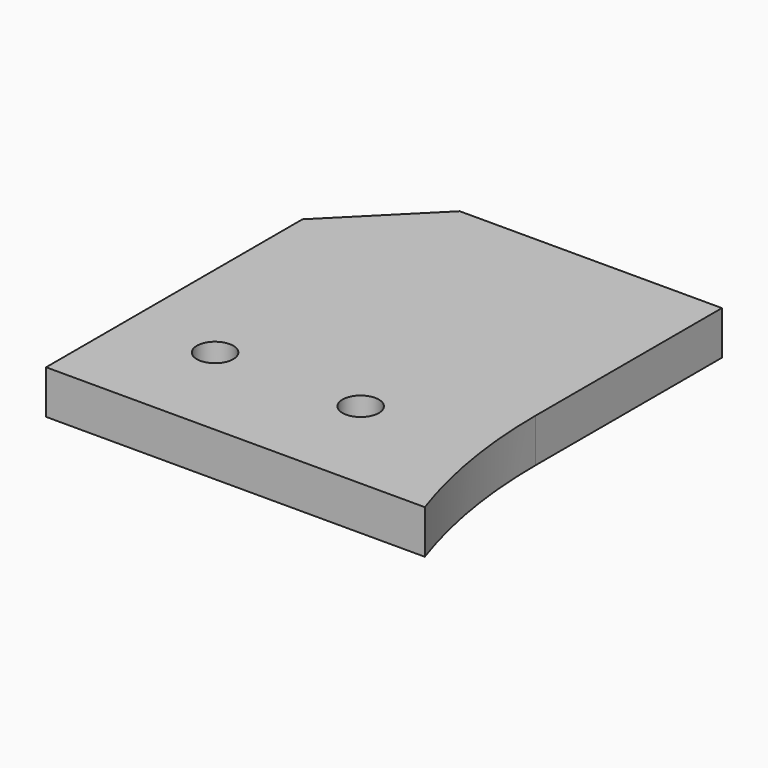
from build123d import *

# Parameters (mm, degrees)
BOX749_W           = 148
BOX749_H           = 74
BOX749_DEPTH       = 55
CYLINDER1788_R     = 2.5
CYLINDER1788_DEPTH = 20
CYLINDER1789_R     = 2.5
CYLINDER1789_DEPTH = 20
CYLINDER1787_R     = 74
CYLINDER1787_DEPTH = 32
BOX748_W           = 62
BOX748_H           = 56
BOX748_DEPTH       = 6
CHAMFER062_SIZE    = 12


with BuildPart() as krychle749:
    # Box749 → Box749 (new body)
    with BuildSketch(Plane(origin=(-74, 0, 29), x_dir=(1, 0, 0), z_dir=(0, 0, 1))):
        with Locations((74, 37)):
            Rectangle(BOX749_W, BOX749_H)
    extrude(amount=BOX749_DEPTH)


with BuildPart() as obj1:
    # Cylinder1788 → Cylinder1788 (new body)
    with BuildSketch(Plane(origin=(-90, -10, 66), x_dir=(1, 0, 0), z_dir=(0, 0, 1))):
        Circle(CYLINDER1788_R)
    extrude(amount=CYLINDER1788_DEPTH)


with BuildPart() as compound914:
    # Cylinder1789 → Cylinder1789 (new body)
    with BuildSketch(Plane(origin=(-110, -10, 66), x_dir=(1, 0, 0), z_dir=(0, 0, 1))):
        Circle(CYLINDER1789_R)
    extrude(amount=CYLINDER1789_DEPTH)

    # Compound914: union obj1
    add(obj1.part)


with BuildPart() as obj2:
    # Cylinder1787 → Cylinder1787 (new body)
    with BuildSketch(Plane.XY.offset(66)):
        Circle(CYLINDER1787_R)
    extrude(amount=CYLINDER1787_DEPTH)


with BuildPart() as cut552:
    # Box748 → Box748 (new body)
    with BuildSketch(Plane(origin=(-122, -24, 76), x_dir=(1, 0, 0), z_dir=(0, 0, 1))):
        with Locations((31, 28)):
            Rectangle(BOX748_W, BOX748_H)
    extrude(amount=BOX748_DEPTH)

    # Cut545: cut obj2
    add(obj2.part, mode=Mode.SUBTRACT)

    # Cut544: cut Compound914
    add(compound914.part, mode=Mode.SUBTRACT)


with BuildPart() as cut552_1:
    # Cut544 placement: moved
    add(cut552.part.moved(Location((0, 0, 2))))

    # Chamfer062
    chamfer062_edges = [cut552_1.edges().sort_by_distance(p)[0] for p in [
        (-122, 32, 81),
    ]]
    chamfer(chamfer062_edges, length=CHAMFER062_SIZE)

    # Cut552: cut Krychle749
    add(krychle749.part, mode=Mode.SUBTRACT)


solid = cut552_1.part
